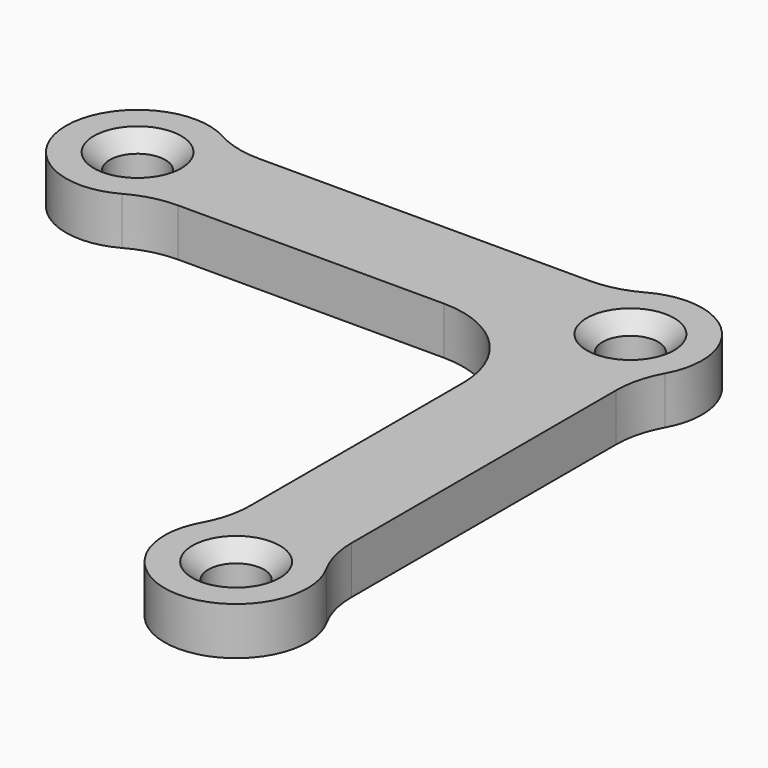
from build123d import *

# Parameters (mm, degrees)
F0_R     = 1.75
F1_DEPTH = 3
F2_SIZE  = 1


with BuildPart() as f1:
    # F0 (on Top) → F1 (new body)
    with BuildSketch(Plane.XY):
        with BuildLine():
            Line((10.406746, 18.681981), (-10.406746, 18.681981))
            ThreePointArc((-10.406746, 18.681981), (-11.909897, 18.87332), (-13.317177, 19.435135))
            ThreePointArc((-13.317177, 19.435135), (-20, 15.5), (-13.317177, 11.564865))
            ThreePointArc((-13.317177, 11.564865), (-11.909897, 12.12668), (-10.406746, 12.318019))
            Line((-10.406746, 12.318019), (6.318019, 12.318019))
            ThreePointArc((6.318019, 12.318019), (10.56066, 10.56066), (12.318019, 6.318019))
            Line((12.318019, 6.318019), (12.318019, -10.406746))
            ThreePointArc((12.318019, -10.406746), (12.12668, -11.909897), (11.564865, -13.317177))
            ThreePointArc((11.564865, -13.317177), (15.5, -20), (19.435135, -13.317177))
            ThreePointArc((19.435135, -13.317177), (18.87332, -11.909897), (18.681981, -10.406746))
            Line((18.681981, -10.406746), (18.681981, 10.406746))
            ThreePointArc((18.681981, 10.406746), (18.87332, 11.909897), (19.435135, 13.317177))
            ThreePointArc((19.435135, 13.317177), (18.681981, 18.681981), (13.317177, 19.435135))
            ThreePointArc((13.317177, 19.435135), (11.909897, 18.87332), (10.406746, 18.681981))
        make_face()
        with Locations((15.5, -15.5)):
            Circle(F0_R, mode=Mode.SUBTRACT)
        with Locations((-15.5, 15.5)):
            Circle(F0_R, mode=Mode.SUBTRACT)
        with Locations((15.5, 15.5)):
            Circle(F0_R, mode=Mode.SUBTRACT)
    extrude(amount=F1_DEPTH)

    # F2
    f2_edges = [f1.edges().sort_by_distance(p)[0] for p in [
        (-17.25, 15.5, 3),
        (13.75, 15.5, 3),
        (13.75, -15.5, 3),
    ]]
    chamfer(f2_edges, length=F2_SIZE)


solid = f1.part
